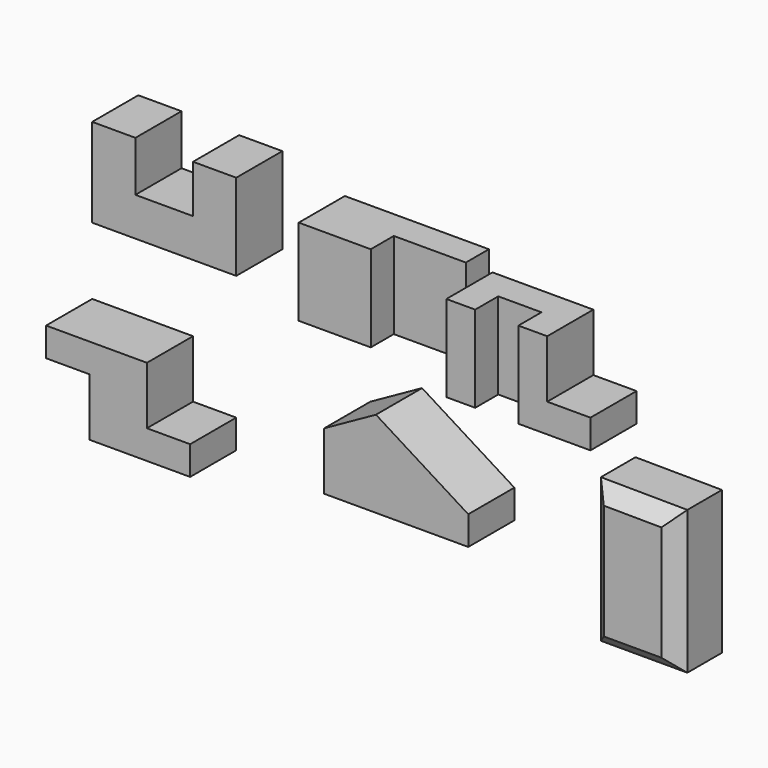
from build123d import *

# Parameters (mm, degrees)
F1_DEPTH  = 101.6
F2_W      = 254
F2_H      = 152.4
F3_DEPTH  = 50.8
F4_W      = 127
F4_H      = 152.4
F5_DEPTH  = 50.8
F7_DEPTH  = 101.6
F8_W      = 76.2
F8_H      = 50.8
F9_DEPTH  = 152.4
F11_DEPTH = 101.6
F13_DEPTH = 101.6
F15_DEPTH = 101.6
F16_SIZE  = 25.4


with BuildPart() as f1:
    # F0 (on Front) → F1 (new body)
    with BuildSketch(Plane.XZ):
        Polygon((0, 156.496749), (0, 0), (254, 0), (254, 152.4), (177.8, 152.4), (177.8, 68.006436), (76.2, 68.006436), (76.2, 156.496749), align=None)
    extrude(amount=-F1_DEPTH)


with BuildPart() as f3:
    # F2 (on Front) → F3 (new body)
    with BuildSketch(Plane.XZ):
        with Locations((531.823917, 76.2)):
            Rectangle(F2_W, F2_H)
    extrude(amount=-F3_DEPTH)

    # F4 (on face) → F5 (join)
    with BuildSketch(Plane.XZ):
        with Locations((468.323917, 76.2)):
            Rectangle(F4_W, F4_H)
    extrude(amount=F5_DEPTH)


with BuildPart() as f7:
    # F6 (on Front) → F7 (new body)
    with BuildSketch(Plane.XZ):
        Polygon((705.796528, 152.4), (705.796528, 0), (959.796528, 0), (959.796528, 50.8), (883.596528, 50.8), (883.596528, 152.4), align=None)
    extrude(amount=F7_DEPTH)

    # F8 (on face) → F9 (cut)
    with BuildSketch(Plane.XY.offset(152.4)):
        with Locations((794.696528, -76.2)):
            Rectangle(F8_W, F8_H)
    extrude(amount=-F9_DEPTH, mode=Mode.SUBTRACT)


with BuildPart() as f11:
    # F10 (on Front) → F11 (new body)
    with BuildSketch(Plane.XZ):
        Polygon((177.8, -118.339481), (0, -118.339481), (0, -169.139481), (76.2, -169.139481), (76.2, -270.739481), (254, -270.739481), (254, -219.939481), (177.8, -219.939481), align=None)
    extrude(amount=F11_DEPTH)


with BuildPart() as f13:
    # F12 (on Front) → F13 (new body)
    with BuildSketch(Plane.XZ):
        Polygon((581.643275, -67.588492), (490.36846, -118.388492), (490.36846, -219.988492), (744.36846, -219.988492), (744.36846, -169.188492), align=None)
    extrude(amount=F13_DEPTH)


with BuildPart() as f15:
    # F14 (on Front) → F15 (new body)
    with BuildSketch(Plane.XZ):
        Polygon((1110.351549, -53.711375), (957.951549, -52.513261), (957.951549, -306.513261), (1110.351549, -306.513261), align=None)
    extrude(amount=F15_DEPTH)

    # F16
    f16_edges = [f15.edges().sort_by_distance(p)[0] for p in [
        (1034.151549, -101.6, -53.112318),
        (957.951549, -101.6, -179.513261),
        (1034.151549, -101.6, -306.513261),
        (1110.351549, -101.6, -180.112318),
    ]]
    chamfer(f16_edges, length=F16_SIZE)


solid = Compound([f1.part, f3.part, f7.part, f11.part, f13.part, f15.part])
